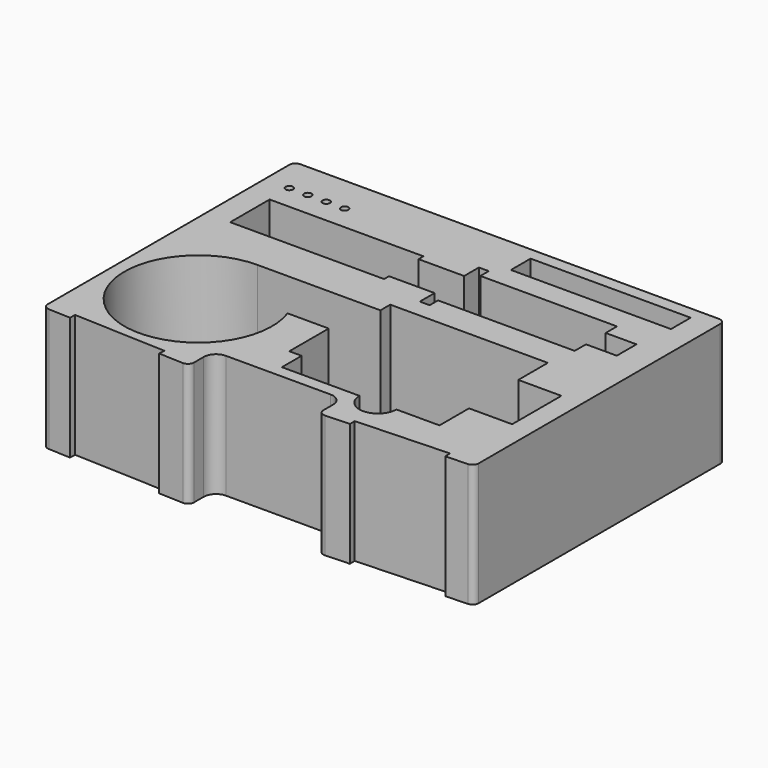
from build123d import *

# Parameters (mm, degrees)
F0_R     = 3
F0_W     = 130
F0_H     = 20
F1_DEPTH = 80
F2_DEPTH = 20


with BuildPart() as f1:
    # F0 (on Top) → F1 (new body)
    with BuildSketch(Plane.XY):
        with BuildLine():
            ThreePointArc((350, -5), (348.535534, -1.464466), (345, 0))
            Line((345, 0), (5, 0))
            ThreePointArc((5, 0), (1.464466, -1.464466), (0, -5))
            Line((0, -5), (0, -250.199918))
            ThreePointArc((0, -250.199918), (1.393093, -253.662608), (4.796088, -255.195759))
            Line((4.796088, -255.195759), (22.583195, -255.921763))
            Line((22.583195, -255.921763), (22.787107, -250.925923))
            Line((22.787107, -250.925923), (97.724711, -253.9846))
            Line((97.724711, -253.9846), (97.520799, -258.980441))
            Line((97.520799, -258.980441), (117.296088, -259.787595))
            ThreePointArc((117.296088, -259.787595), (120.96269, -258.398662), (122.5, -254.791755))
            Line((122.5, -254.791755), (122.5, -245))
            ThreePointArc((122.5, -245), (125.428932, -237.928932), (132.5, -235))
            Line((132.5, -235), (217.5, -235))
            ThreePointArc((217.5, -235), (224.571068, -237.928932), (227.5, -245))
            Line((227.5, -245), (227.5, -254.791755))
            ThreePointArc((227.5, -254.791755), (229.03731, -258.398662), (232.703912, -259.787595))
            Line((232.703912, -259.787595), (252.479201, -258.980441))
            Line((252.479201, -258.980441), (252.275289, -253.9846))
            Line((252.275289, -253.9846), (327.212893, -250.925923))
            Line((327.212893, -250.925923), (327.416805, -255.921763))
            Line((327.416805, -255.921763), (345.203912, -255.195759))
            ThreePointArc((345.203912, -255.195759), (348.606907, -253.662608), (350, -250.199918))
            Line((350, -250.199918), (350, -5))
        make_face()
        with BuildLine():
            Line((170, -125), (170, -115))
            Line((170, -115), (298, -115))
            Line((298, -115), (298, -145))
            Line((298, -145), (333, -145))
            Line((333, -145), (333, -195))
            Line((333, -195), (298, -195))
            Line((298, -195), (298, -225))
            Line((298, -225), (263, -225))
            ThreePointArc((263, -225), (248, -240), (233, -225))
            Line((233, -225), (170, -225))
            Line((170, -225), (170, -205))
            Line((170, -205), (160, -205))
            Line((160, -205), (160, -165))
            Line((160, -165), (126.568542, -165))
            ThreePointArc((126.568542, -165), (35.358984, -233.989795), (70, -125))
            Line((70, -125), (170, -125))
        make_face(mode=Mode.SUBTRACT)
        Polygon((20, -90), (20, -50), (145, -50), (145, -55), (182, -55), (182, -40), (190, -40), (190, -48.5), (301, -48.5), (301, -60), (326, -60), (326, -80), (301, -80), (301, -91.5), (190, -91.5), (190, -100), (182, -100), (182, -85), (145, -85), (145, -90), align=None, mode=Mode.SUBTRACT)
        with Locations((20, -30)):
            Circle(F0_R, mode=Mode.SUBTRACT)
        with Locations((35, -30)):
            Circle(F0_R, mode=Mode.SUBTRACT)
        with Locations((50, -30)):
            Circle(F0_R, mode=Mode.SUBTRACT)
        with Locations((65, -30)):
            Circle(F0_R, mode=Mode.SUBTRACT)
        with Locations((265, -20)):
            Rectangle(F0_W, F0_H, mode=Mode.SUBTRACT)
    extrude(amount=F1_DEPTH)

    # F0 (on Top) → F2 (join)
    with BuildSketch(Plane.XY):
        with BuildLine():
            ThreePointArc((350, -5), (348.535534, -1.464466), (345, 0))
            Line((345, 0), (5, 0))
            ThreePointArc((5, 0), (1.464466, -1.464466), (0, -5))
            Line((0, -5), (0, -250.199918))
            ThreePointArc((0, -250.199918), (1.393093, -253.662608), (4.796088, -255.195759))
            Line((4.796088, -255.195759), (22.583195, -255.921763))
            Line((22.583195, -255.921763), (22.787107, -250.925923))
            Line((22.787107, -250.925923), (97.724711, -253.9846))
            Line((97.724711, -253.9846), (97.520799, -258.980441))
            Line((97.520799, -258.980441), (117.296088, -259.787595))
            ThreePointArc((117.296088, -259.787595), (120.96269, -258.398662), (122.5, -254.791755))
            Line((122.5, -254.791755), (122.5, -245))
            ThreePointArc((122.5, -245), (125.428932, -237.928932), (132.5, -235))
            Line((132.5, -235), (217.5, -235))
            ThreePointArc((217.5, -235), (224.571068, -237.928932), (227.5, -245))
            Line((227.5, -245), (227.5, -254.791755))
            ThreePointArc((227.5, -254.791755), (229.03731, -258.398662), (232.703912, -259.787595))
            Line((232.703912, -259.787595), (252.479201, -258.980441))
            Line((252.479201, -258.980441), (252.275289, -253.9846))
            Line((252.275289, -253.9846), (327.212893, -250.925923))
            Line((327.212893, -250.925923), (327.416805, -255.921763))
            Line((327.416805, -255.921763), (345.203912, -255.195759))
            ThreePointArc((345.203912, -255.195759), (348.606907, -253.662608), (350, -250.199918))
            Line((350, -250.199918), (350, -5))
        make_face()
        with BuildLine():
            Line((170, -125), (170, -115))
            Line((170, -115), (298, -115))
            Line((298, -115), (298, -145))
            Line((298, -145), (333, -145))
            Line((333, -145), (333, -195))
            Line((333, -195), (298, -195))
            Line((298, -195), (298, -225))
            Line((298, -225), (263, -225))
            ThreePointArc((263, -225), (248, -240), (233, -225))
            Line((233, -225), (170, -225))
            Line((170, -225), (170, -205))
            Line((170, -205), (160, -205))
            Line((160, -205), (160, -165))
            Line((160, -165), (126.568542, -165))
            ThreePointArc((126.568542, -165), (35.358984, -233.989795), (70, -125))
            Line((70, -125), (170, -125))
        make_face(mode=Mode.SUBTRACT)
        Polygon((20, -90), (20, -50), (145, -50), (145, -55), (182, -55), (182, -40), (190, -40), (190, -48.5), (301, -48.5), (301, -60), (326, -60), (326, -80), (301, -80), (301, -91.5), (190, -91.5), (190, -100), (182, -100), (182, -85), (145, -85), (145, -90), align=None, mode=Mode.SUBTRACT)
        with Locations((20, -30)):
            Circle(F0_R, mode=Mode.SUBTRACT)
        with Locations((35, -30)):
            Circle(F0_R, mode=Mode.SUBTRACT)
        with Locations((50, -30)):
            Circle(F0_R, mode=Mode.SUBTRACT)
        with Locations((65, -30)):
            Circle(F0_R, mode=Mode.SUBTRACT)
        with Locations((265, -20)):
            Rectangle(F0_W, F0_H, mode=Mode.SUBTRACT)
        with BuildLine():
            Line((298, -115), (170, -115))
            Line((170, -115), (170, -125))
            Line((170, -125), (70, -125))
            ThreePointArc((70, -125), (35.358984, -233.989795), (126.568542, -165))
            Line((126.568542, -165), (160, -165))
            Line((160, -165), (160, -205))
            Line((160, -205), (170, -205))
            Line((170, -205), (170, -225))
            Line((170, -225), (233, -225))
            ThreePointArc((233, -225), (248, -240), (263, -225))
            Line((263, -225), (298, -225))
            Line((298, -225), (298, -195))
            Line((298, -195), (333, -195))
            Line((333, -195), (333, -145))
            Line((333, -145), (298, -145))
            Line((298, -145), (298, -115))
        make_face()
        Polygon((145, -50), (20, -50), (20, -90), (145, -90), (145, -85), (182, -85), (182, -100), (190, -100), (190, -91.5), (301, -91.5), (301, -80), (326, -80), (326, -60), (301, -60), (301, -48.5), (190, -48.5), (190, -40), (182, -40), (182, -55), (145, -55), align=None)
        with Locations((265, -20)):
            Rectangle(F0_W, F0_H)
        with Locations((65, -30)):
            Circle(F0_R)
        with Locations((50, -30)):
            Circle(F0_R)
        with Locations((35, -30)):
            Circle(F0_R)
        with Locations((20, -30)):
            Circle(F0_R)
    extrude(amount=-F2_DEPTH)


solid = f1.part
